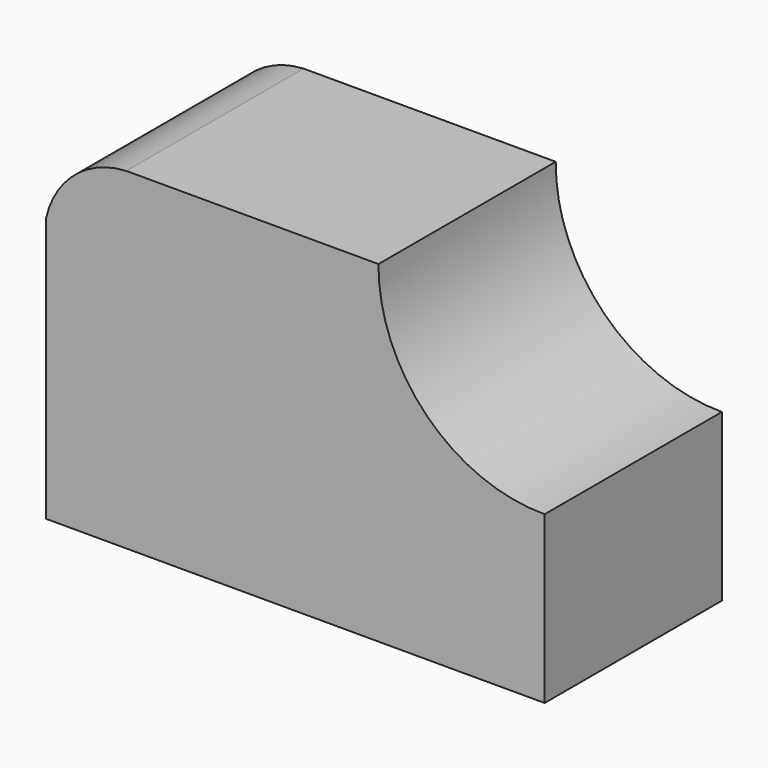
from build123d import *

# Parameters (mm, degrees)
F1_DEPTH = 25.4


with BuildPart() as f1:
    # F0 (on Front) → F1 (new body)
    with BuildSketch(Plane.XZ):
        with BuildLine():
            Line((0, 26.083848), (0, 0))
            Line((0, 0), (57.15, 0))
            Line((57.15, 0), (57.15, 19.05))
            ThreePointArc((57.15, 19.05), (43.643284, 24.593284), (38.1, 38.1))
            Line((38.1, 38.1), (10.160001, 38.1))
            Line((10.160001, 38.1), (9.190616, 38.1))
            ThreePointArc((9.190616, 38.1), (3.279744, 35.770442), (0, 30.329071))
            Line((0, 30.329071), (0, 26.083848))
        make_face()
    extrude(amount=F1_DEPTH)


solid = f1.part
